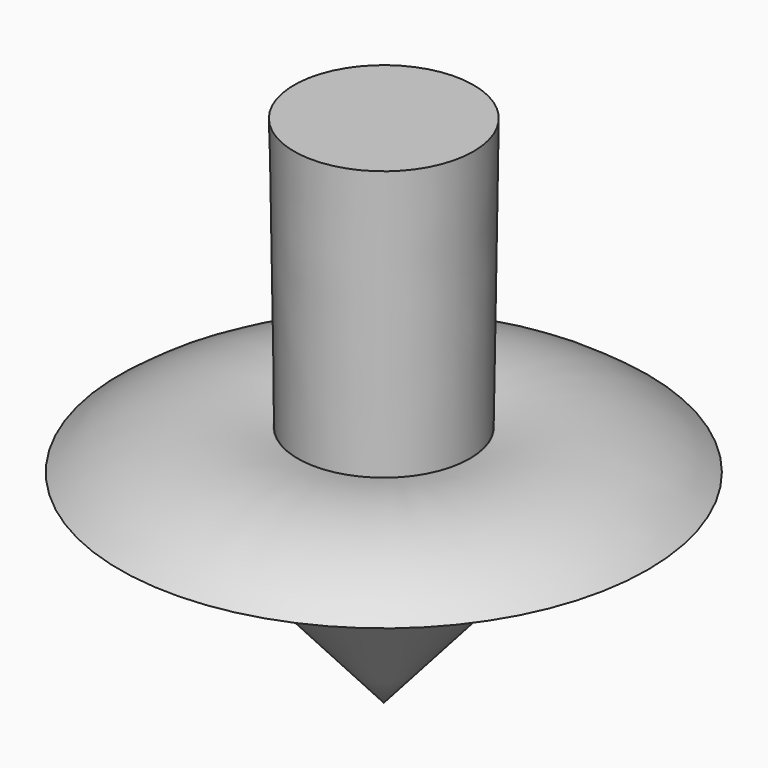
from build123d import *


with BuildPart() as f1:
    # F0 (on Front) → F1 (revolve)
    with BuildSketch(Plane.XZ):
        with BuildLine():
            Line((0, 60.744923), (0, 0))
            Line((0, 0), (13.365728, 15.209274))
            ThreePointArc((13.365728, 15.209274), (21.391858, 21.354408), (31.158879, 23.959541))
            ThreePointArc((31.158879, 23.959541), (21.239293, 28.731662), (10.231696, 28.667178))
            Line((10.231696, 28.667178), (10.133631, 28.667178))
            Line((10.133631, 28.667178), (10.600405, 60.744923))
            Line((10.600405, 60.744923), (0, 60.744923))
        make_face()
    revolve(axis=Axis((0, 0, 30.372461), (0, 0, -1)))


solid = f1.part
